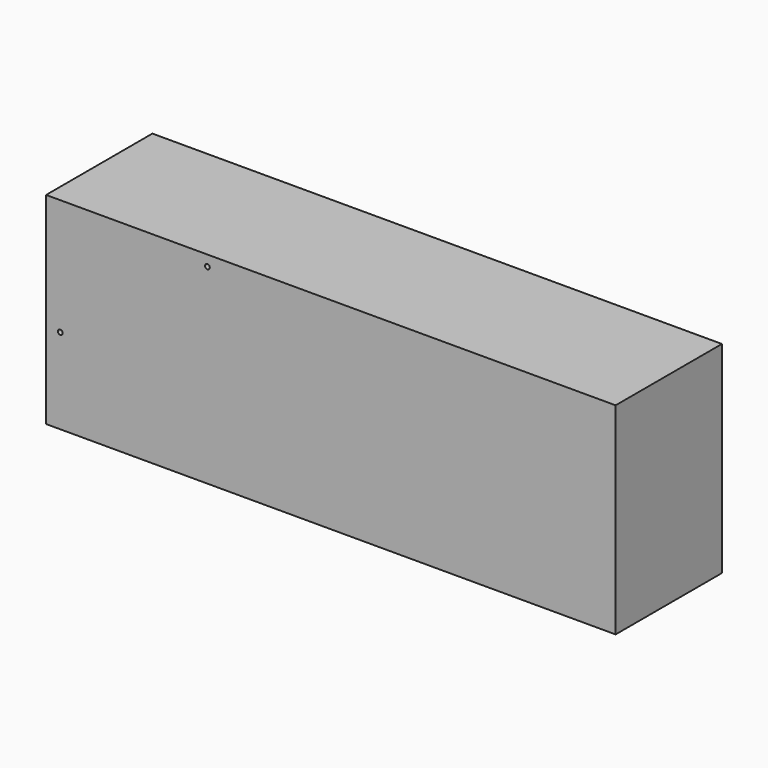
from build123d import *

# Parameters (mm, degrees)
F0_W     = 1524
F0_H     = 355.6
F1_DEPTH = 539.75
F3_D     = 12.7


with BuildPart() as f1:
    # F0 (on Top) → F1 (new body)
    with BuildSketch(Plane.XY):
        with Locations((774.970217, 177.8)):
            Rectangle(F0_W, F0_H)
    extrude(amount=F1_DEPTH)

    # F3 (through all)
    with Locations(Plane.XZ):
        with Locations((444.634175, 510.985237), (51.059295, 228.6)):
            Hole(F3_D / 2)


solid = f1.part
